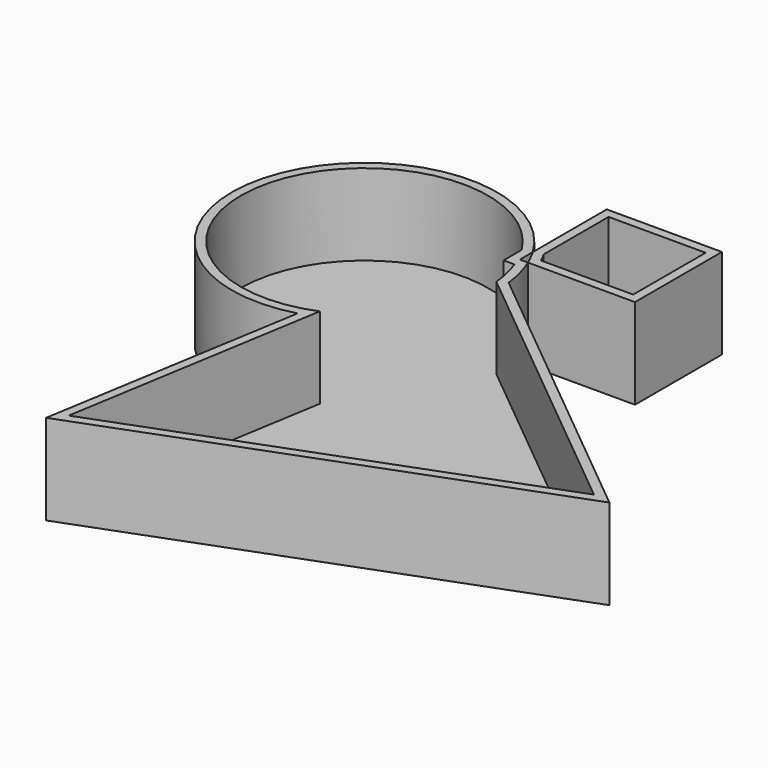
from build123d import *

# Parameters (mm, degrees)
F1_DEPTH = 25.4
F2_T     = -2.54
F2_2_T   = -2.54


with BuildPart() as f1:
    # F0 (on Top) → F1 (new body)
    with BuildSketch(Plane.XY):
        with BuildLine():
            ThreePointArc((20.307879895, 19.0276347573), (21.5263845302, 16.8054528694), (22.5911183123, 14.5056294277))
            Line((22.5911183123, 14.5056294277), (52.678335458, 14.5056294277))
            Line((52.678335458, 14.5056294277), (52.678335458, 45.0437963009))
            Line((52.678335458, 45.0437963009), (20.307879895, 45.0437963009))
            Line((20.307879895, 45.0437963009), (20.307879895, 19.0276347573))
        make_face()
    extrude(amount=F1_DEPTH)

    # F2#2
    f2_2_openings = [f1.faces().sort_by_distance(p)[0] for p in [
        (36.578547, 29.850824, 25.4),
    ]]
    offset(amount=F2_2_T, openings=f2_2_openings)


with BuildPart() as f1b:
    # F0 (on Top) → F1, piece 2 (new body)
    with BuildSketch(Plane.XY):
        with BuildLine():
            Line((7.3154635593, 19.116868731), (25.2709553989, 4.3744703169))
            ThreePointArc((25.2709553989, 4.3744703169), (24.2887477567, 9.534669543), (22.5911183123, 14.5056294277))
            Line((22.5911183123, 14.5056294277), (20.307879895, 14.5056294277))
            Line((20.307879895, 14.5056294277), (20.307879895, 19.0276347573))
            ThreePointArc((20.307879895, 19.0276347573), (-46.3519339996, 13.9076937512), (-1.7849945216, -35.9273590724))
            Line((-1.7849945216, -35.9273590724), (7.3154635593, 19.116868731))
        make_face()
        with BuildLine():
            ThreePointArc((25.2709553989, 4.3744703169), (25.4640266081, 2.1910213426), (25.5284579046, 0))
            ThreePointArc((25.5284579046, 0), (17.9247853773, -22.5654592982), (-1.7849945216, -35.9273590724))
            Line((-1.7849945216, -35.9273590724), (-13.8948485255, -109.1739535332))
            Line((-13.8948485255, -109.1739535332), (107.8134186701, -63.3972114887))
            Line((107.8134186701, -63.3972114887), (25.2709553989, 4.3744703169))
        make_face()
        with BuildLine():
            ThreePointArc((-1.7849945216, -35.9273590724), (17.9247853773, -22.5654592982), (25.5284579046, 0))
            ThreePointArc((25.5284579046, 0), (25.4640266081, 2.1910213426), (25.2709553989, 4.3744703169))
            Line((25.2709553989, 4.3744703169), (7.3154635593, 19.116868731))
            Line((7.3154635593, 19.116868731), (-1.7849945216, -35.9273590724))
        make_face()
    extrude(amount=F1_DEPTH)

    # F2
    f2_openings = [f1b.faces().sort_by_distance(p)[0] for p in [
        (17.131687, -33.902395, 25.4),
    ]]
    offset(amount=F2_T, openings=f2_openings, kind=Kind.INTERSECTION)


solid = Compound([f1.part, f1b.part])
